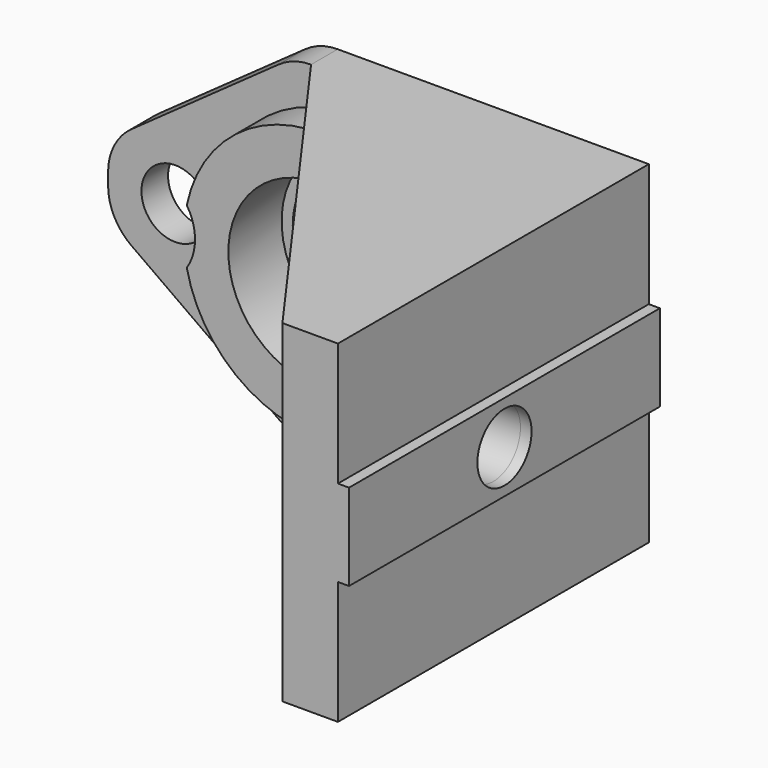
from build123d import *

# Parameters (mm, degrees)
F0_R      = 12.1
F0_R_2    = 8.1
F1_DEPTH  = 6.4
F0_R_3    = 3.05
F0_W      = 5
F0_H      = 30
F2_DEPTH  = 3
F3_R      = 8.1
F3_R_2    = 7.1
F4_DEPTH  = 0.4
F5_DEPTH  = 35
F6_R      = 4.5
F7_DEPTH  = 10
F9_DEPTH  = 5
F11_DEPTH = 5
F12_W     = 35
F12_H     = 7.8
F12_R     = 3.05
F13_DEPTH = 1
F14_DEPTH = 46.301


with BuildPart() as f1:
    # F0 (on Front) → F1 (new body)
    with BuildSketch(Plane.XZ):
        Circle(F0_R)
        Circle(F0_R_2, mode=Mode.SUBTRACT)
    extrude(amount=F1_DEPTH)

    # F0 (on Front) → F2 (join)
    with BuildSketch(Plane.XZ):
        with BuildLine():
            Line((-21.65, 0.5412544591), (-21.65, -0.5412544591))
            ThreePointArc((-21.65, -0.5412544591), (-21.0942775075, -2.8321925717), (-19.5506410256, -4.6138803491))
            Line((-19.5506410256, -4.6138803491), (-6.2701517693, -14.0726258901))
            ThreePointArc((-6.2701517693, -14.0726258901), (-4.892151632, -14.7625166378), (-3.3695107437, -15))
            Line((-3.3695107437, -15), (19.65, -15))
            Line((19.65, -15), (19.65, 15))
            Line((19.65, 15), (-3.3695107437, 15))
            ThreePointArc((-3.3695107437, 15), (-4.892151632, 14.7625166378), (-6.2701517693, 14.0726258901))
            Line((-6.2701517693, 14.0726258901), (-19.5506410256, 4.6138803491))
            ThreePointArc((-19.5506410256, 4.6138803491), (-21.0942775075, 2.8321925717), (-21.65, 0.5412544591))
        make_face()
        with Locations((-15.6, 0)):
            Circle(F0_R_3, mode=Mode.SUBTRACT)
        Circle(F0_R, mode=Mode.SUBTRACT)
        with Locations((15.6, 0)):
            Circle(F0_R_3, mode=Mode.SUBTRACT)
        with Locations((22.15, 0)):
            Rectangle(F0_W, F0_H)
    extrude(amount=F2_DEPTH)

    # F3 (on face) → F4 (join)
    with BuildSketch(Plane(origin=(0, 0, 0), x_dir=(-1, 0, 0), z_dir=(0, 1, 0))):
        Circle(F3_R)
        Circle(F3_R_2, mode=Mode.SUBTRACT)
    extrude(amount=-F4_DEPTH)

    # F0 (on Front) → F5 (join)
    with BuildSketch(Plane.XZ):
        with Locations((22.15, 0)):
            Rectangle(F0_W, F0_H)
    extrude(amount=F5_DEPTH)

    # F6 (on face) → F7 (cut)
    with BuildSketch(Plane.XZ.offset(3)):
        with Locations((-15.6, 0)):
            Circle(F6_R)
        with Locations((15.6, 0)):
            Circle(F6_R)
    extrude(amount=F7_DEPTH, mode=Mode.SUBTRACT)

    # F8 (on face) → F9 (join)
    with BuildSketch(Plane(origin=(0, 0, -15), x_dir=(1, 0, 0), z_dir=(0, 0, -1))):
        Polygon((19.65, 3), (19.65, 35), (-3.3695107437, 3), align=None)
    extrude(amount=-F9_DEPTH)

    # F10 (on face) → F11 (join)
    with BuildSketch(Plane.XY.offset(15)):
        Polygon((19.65, -3), (-3.3695107437, -3), (19.65, -35), align=None)
    extrude(amount=-F11_DEPTH)

    # F12 (on face) → F13 (join)
    with BuildSketch(Plane.YZ.offset(24.65)):
        with Locations((-17.5, 0)):
            Rectangle(F12_W, F12_H)
        with Locations((-17.5, 0)):
            Circle(F12_R, mode=Mode.SUBTRACT)
    extrude(amount=F13_DEPTH)

    # F14 (cut, through all): a face of the model
    f14_faces = [f1.faces().sort_by_distance(p)[0] for p in [
        (24.65, -17.5, 0),
    ]]
    extrude(f14_faces, amount=-F14_DEPTH, mode=Mode.SUBTRACT)


solid = f1.part
